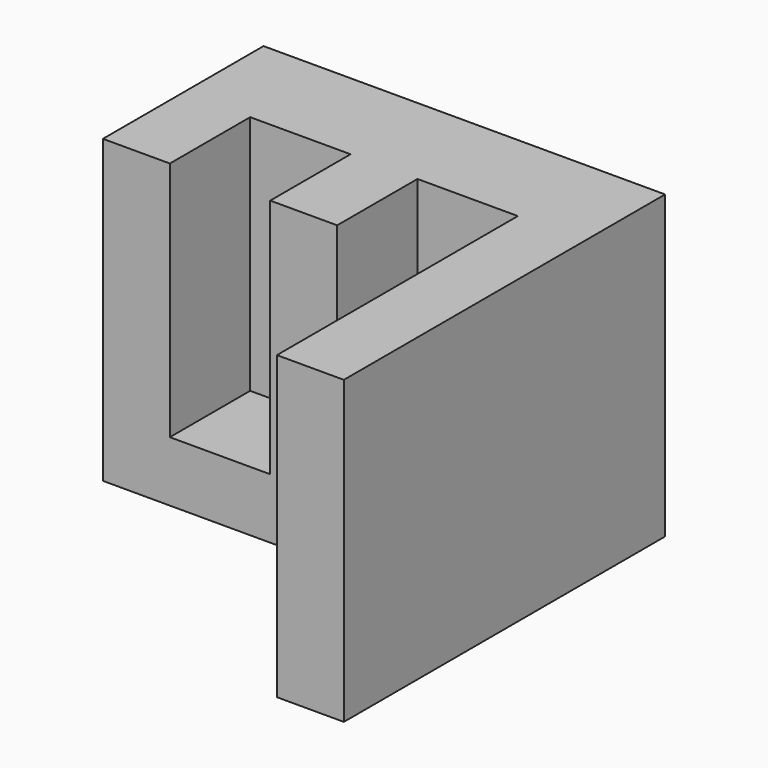
from build123d import *

# Parameters (mm, degrees)
F0_W     = 152.4
F0_H     = 114.3
F1_DEPTH = 152.4
F2_W     = 127
F2_H     = 114.3
F3_DEPTH = 76.2
F4_W     = 38.1
F4_H     = 91.44
F5_DEPTH = 38.1
F6_DEPTH = 38.1


with BuildPart() as f1:
    # F0 (on Front) → F1 (new body)
    with BuildSketch(Plane.XZ):
        Rectangle(F0_W, F0_H)
    extrude(amount=F1_DEPTH)

    # F2 (on face) → F3 (cut)
    with BuildSketch(Plane.XZ.offset(152.4)):
        with Locations((-12.7, 0)):
            Rectangle(F2_W, F2_H)
    extrude(amount=-F3_DEPTH, mode=Mode.SUBTRACT)

    # F4 (on face) → F5 (cut)
    with BuildSketch(Plane.XZ.offset(76.2)):
        with Locations((-31.75, 11.43)):
            Rectangle(F4_W, F4_H)
    extrude(amount=-F5_DEPTH, mode=Mode.SUBTRACT)

    # F4 (on face) → F6 (cut)
    with BuildSketch(Plane.XZ.offset(76.2)):
        with Locations((31.75, 11.43)):
            Rectangle(F4_W, F4_H)
    extrude(amount=-F6_DEPTH, mode=Mode.SUBTRACT)


solid = f1.part
